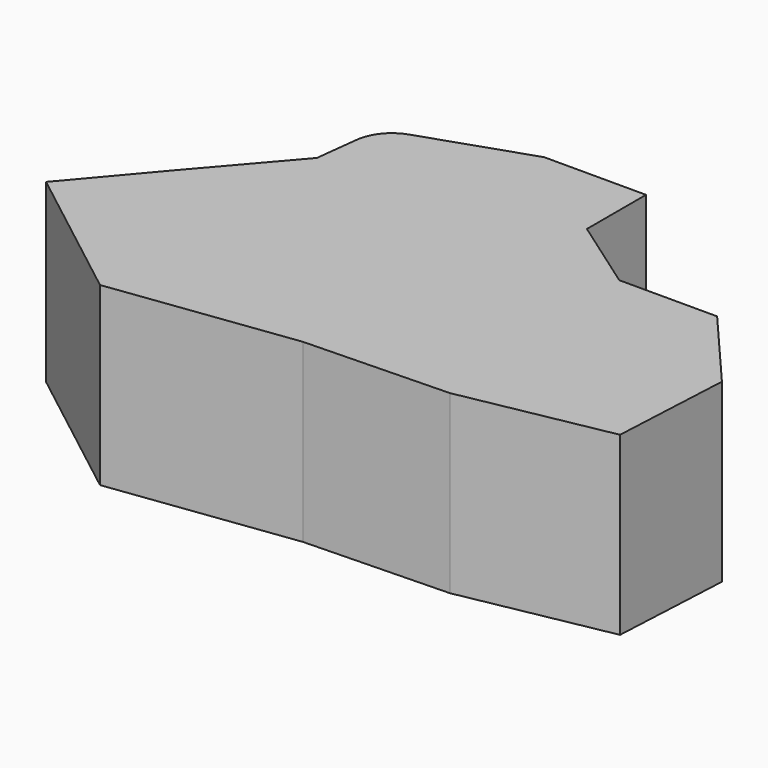
from build123d import *

# Parameters (mm, degrees)
F1_DEPTH = 13.2296
F2_R     = 2.93654


with BuildPart() as f1:
    # F0 (on Top) → F1 (new body)
    with BuildSketch(Plane.XY):
        Polygon((7.648975, 63.29149), (0, 63.29149), (-9.748682, 59.991933), (-10.348603, 54.892614), (-15.89787, 48.443481), (-20.847201, 42.594269), (-10.198623, 34.345381), (3.59951, 36.145136), (14.398068, 36.445096), (25.496572, 38.544811), (25.946513, 47.5436), (20.547241, 53.842753), (13.198227, 53.842753), (7.648975, 57.742231), align=None)
    extrude(amount=F1_DEPTH)

    # F2
    f2_edges = [f1.edges().sort_by_distance(p)[0] for p in [
        (-9.748682, 59.991933, 6.6148),
    ]]
    fillet(f2_edges, radius=F2_R)


solid = f1.part
